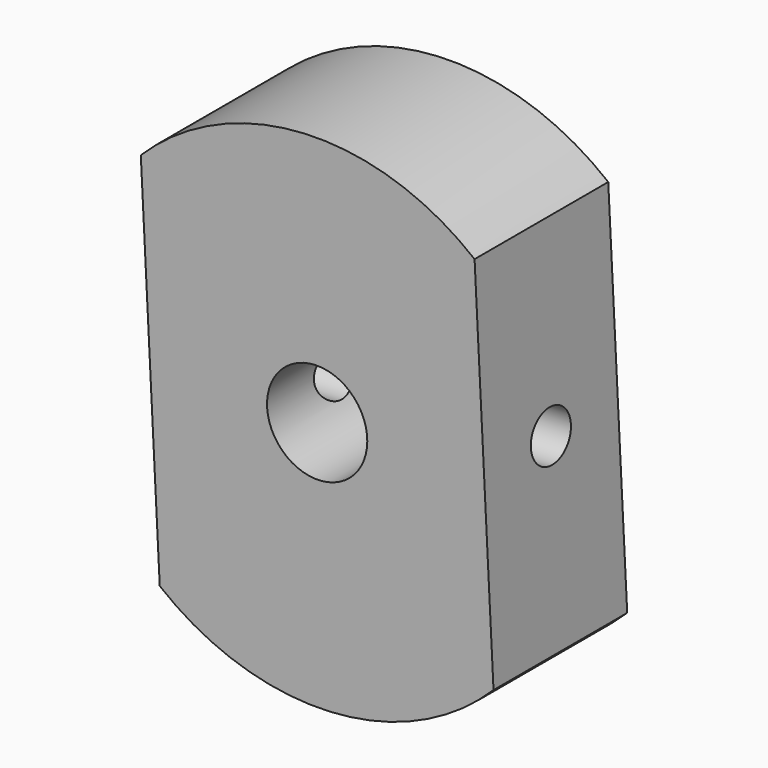
from build123d import *

# Parameters (mm, degrees)
F0_R     = 7.5
F0_R_2   = 1.5
F1_DEPTH = 5
F3_DEPTH = 25
F4_R     = 0.75
F5_DEPTH = 25


with BuildPart() as f1:
    # F0 (on Front) → F1 (new body)
    with BuildSketch(Plane.XZ):
        Circle(F0_R)
        Circle(F0_R_2, mode=Mode.SUBTRACT)
    extrude(amount=F1_DEPTH)

    # F2 (on face) → F3 (cut)
    with BuildSketch(Plane.XZ.offset(5)):
        Polygon((7.705039, 6.243331), (4.710033, 5.836573), (5.342667, -6.620519), (8.805699, -9.096223), (11.449249, 0), align=None)
        Polygon((-4.710033, -5.836573), (-5.342667, 6.620519), (-10.334909, 6.971451), (-9.518318, -9.107922), align=None)
    extrude(amount=-F3_DEPTH, mode=Mode.SUBTRACT)

    # F4 (on face) → F5 (cut)
    with BuildSketch(Plane(origin=(4.993565, 0, 0.253598), x_dir=(0, 1, 0), z_dir=(0.998713, 0, 0.05072))):
        with Locations((-2.5, 0)):
            Circle(F4_R)
    extrude(amount=-F5_DEPTH, mode=Mode.SUBTRACT)


solid = f1.part
